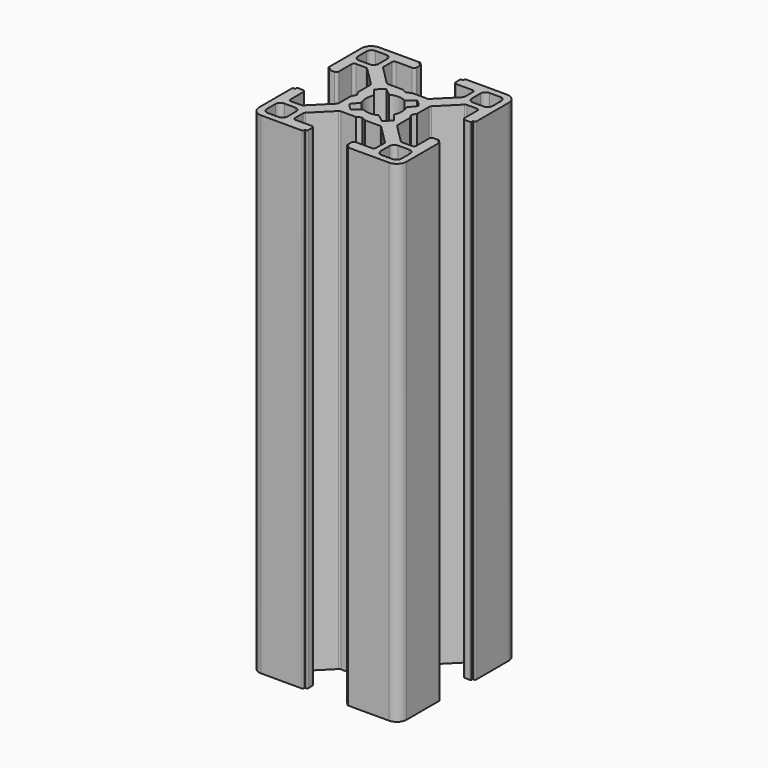
from build123d import *

# Parameters (mm, degrees)
PAD_DEPTH             = 100
POCKET_DEPTH          = 317.25661
POLARPATTERN_COUNT    = 4
SKETCH002_R           = 3.65
POCKET001_DEPTH       = 100.001
POCKET002_DEPTH       = 317.25661
POLARPATTERN001_COUNT = 4


with BuildPart() as part:
    # Sketch → Pad (new body)
    with BuildSketch(Plane.XY):
        with BuildLine():
            Line((-13, 15), (13, 15))
            ThreePointArc((15, 13), (14.414214, 14.414214), (13, 15))
            Line((15, 13), (15, -13))
            ThreePointArc((13, -15), (14.414214, -14.414214), (15, -13))
            Line((13, -15), (-13, -15))
            ThreePointArc((-15, -13), (-14.414214, -14.414214), (-13, -15))
            Line((-15, -13), (-15, 13))
            ThreePointArc((-13, 15), (-14.414214, 14.414214), (-15, 13))
        make_face()
    extrude(amount=PAD_DEPTH)

    # Sketch001 (on Face9 of Pad) → Pocket (cut, through all)
    with BuildSketch(Plane(origin=(0, 0, 0), x_dir=(1, 0, 0), z_dir=(0, 0, -1))):
        with BuildLine():
            Line((-14.5, -4.5), (-14.5, -4.2))
            ThreePointArc((-14.3, -4), (-14.441421, -4.058579), (-14.5, -4.2))
            Line((-14.3, -4), (-13.3, -4))
            ThreePointArc((-12.8, -4.5), (-12.946447, -4.146447), (-13.3, -4))
            Line((-12.8, -4.5), (-12.8, -7.75))
            ThreePointArc((-12.8, -7.75), (-12.653553, -8.103553), (-12.3, -8.25))
            Line((-12.3, -8.25), (-10.253393, -8.25))
            ThreePointArc((-10.253393, -8.25), (-10.062156, -8.211983), (-9.9, -8.103713))
            Line((-9.9, -8.103713), (-6.146607, -4.353713))
            ThreePointArc((-6.146607, -4.353713), (-6.038104, -4.191446), (-6, -4))
            Line((-6, -4), (-6, -0.95))
            ThreePointArc((-5.973863, -0.851148), (-5.993355, -0.898876), (-6, -0.95))
            Line((-5.973863, -0.851148), (-5.546137, -0.098852))
            ThreePointArc((-5.546137, -0.098852), (-5.52, 0), (-5.546137, 0.098852))
            Line((-5.546137, 0.098852), (-5.973863, 0.851148))
            ThreePointArc((-6, 0.95), (-5.993355, 0.898876), (-5.973863, 0.851148))
            Line((-6, 0.95), (-6, 4))
            ThreePointArc((-6, 4), (-6.038104, 4.191446), (-6.146607, 4.353713))
            Line((-6.146607, 4.353713), (-9.9, 8.103713))
            ThreePointArc((-9.9, 8.103713), (-10.062156, 8.211983), (-10.253393, 8.25))
            Line((-10.253393, 8.25), (-12.3, 8.25))
            ThreePointArc((-12.3, 8.25), (-12.653553, 8.103553), (-12.8, 7.75))
            Line((-12.8, 7.75), (-12.8, 4.5))
            ThreePointArc((-13.3, 4), (-12.946447, 4.146447), (-12.8, 4.5))
            Line((-13.3, 4), (-14.3, 4))
            ThreePointArc((-14.5, 4.2), (-14.441421, 4.058579), (-14.3, 4))
            Line((-14.5, 4.2), (-14.5, 4.5))
            Line((-14.5, 4.5), (-14.8, 4.5))
            ThreePointArc((-15, 4.699994), (-14.941419, 4.558577), (-14.8, 4.5))
            Line((-15, 4.699994), (-15, -4.699994))
            ThreePointArc((-14.8, -4.5), (-14.941419, -4.558577), (-15, -4.699994))
            Line((-14.5, -4.5), (-14.8, -4.5))
        make_face()
        with BuildLine():
            Line((-12.7, 13.7), (-10.5, 13.7))
            ThreePointArc((-9.5, 12.7), (-9.792893, 13.407107), (-10.5, 13.7))
            Line((-9.5, 12.7), (-9.5, 10.5))
            ThreePointArc((-10.5, 9.5), (-9.792893, 9.792893), (-9.5, 10.5))
            Line((-10.5, 9.5), (-12.7, 9.5))
            ThreePointArc((-13.7, 10.5), (-13.407107, 9.792893), (-12.7, 9.5))
            Line((-13.7, 10.5), (-13.7, 12.7))
            ThreePointArc((-12.7, 13.7), (-13.407107, 13.407107), (-13.7, 12.7))
        make_face()
    pocket = extrude(amount=-POCKET_DEPTH, mode=Mode.SUBTRACT)

    # PolarPattern: Pocket ×4 about axis
    polarpattern_axis = Axis((0, 0, 0), (0, 0, -1))
    for i in range(1, POLARPATTERN_COUNT):
        add(pocket.rotate(polarpattern_axis, i * 360 / POLARPATTERN_COUNT), mode=Mode.SUBTRACT)

    # Sketch002 (on Face2 of PolarPattern) → Pocket001 (cut, through all)
    with BuildSketch(Plane(origin=(0, 0, 0), x_dir=(1, 0, 0), z_dir=(0, 0, -1))):
        Circle(SKETCH002_R)
    extrude(amount=-POCKET001_DEPTH, mode=Mode.SUBTRACT)

    # Sketch003 (on Face2 of Pocket001) → Pocket002 (cut, through all)
    with BuildSketch(Plane(origin=(0, 0, 0), x_dir=(1, 0, 0), z_dir=(0, 0, -1))):
        with BuildLine():
            ThreePointArc((4.513199, 3.143411), (3.889499, 3.888676), (3.144366, 4.512534))
            Line((1.598808, 3.281206), (3.144366, 4.512534))
            ThreePointArc((3.281544, 1.598114), (2.581213, 2.580667), (1.598808, 3.281206))
            Line((3.281544, 1.598114), (4.513199, 3.143411))
        make_face()
    pocket002 = extrude(amount=-POCKET002_DEPTH, mode=Mode.SUBTRACT)

    # PolarPattern001: Pocket002 ×4 about axis
    polarpattern001_axis = Axis((0, 0, 0), (0, 0, -1))
    for i in range(1, POLARPATTERN001_COUNT):
        add(pocket002.rotate(polarpattern001_axis, i * 360 / POLARPATTERN001_COUNT), mode=Mode.SUBTRACT)


solid = part.part
